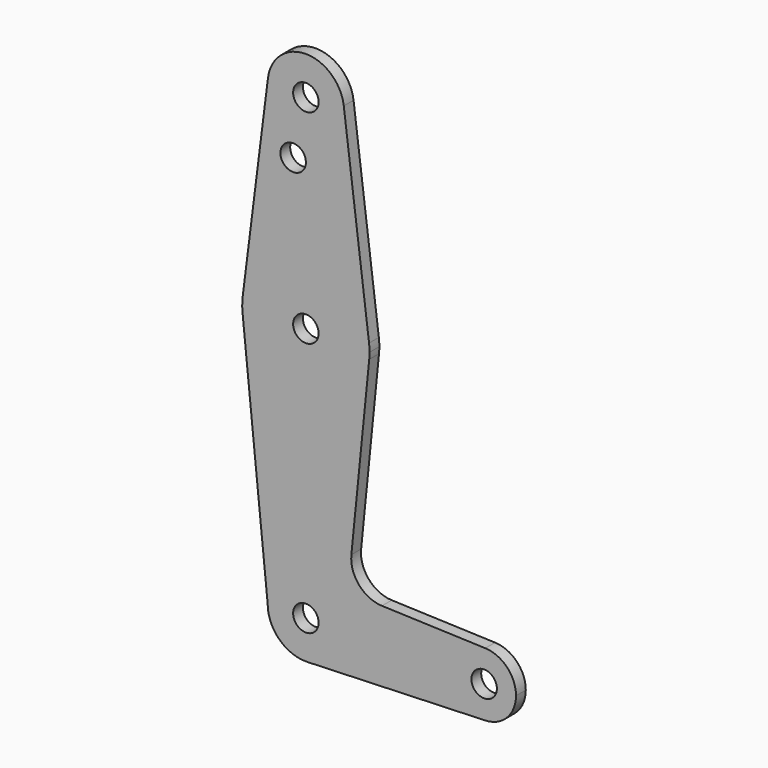
from build123d import *

# Parameters (mm, degrees)
F0_R     = 3.175
F1_DEPTH = 3.048


with BuildPart() as f1:
    # F0 (on Front) → F1 (new body)
    with BuildSketch(Plane.XZ):
        with BuildLine():
            ThreePointArc((9.477255, -0.9525), (9.513056, -0.476848), (9.525, 0))
            ThreePointArc((9.525, 0), (0, 9.525), (-9.525, 0))
            ThreePointArc((-9.525, 0), (-6.613827, -6.854408), (0.340179, -9.518923))
            ThreePointArc((0.340179, -9.518923), (6.514707, -6.948685), (9.477255, -0.9525))
        make_face()
        Circle(F0_R, mode=Mode.SUBTRACT)
        with BuildLine():
            ThreePointArc((-9.525, 0), (0, 9.525), (9.525, 0))
            ThreePointArc((9.525, 0), (9.513056, -0.476848), (9.477255, -0.9525))
            ThreePointArc((9.477255, -0.9525), (6.514707, -6.948685), (0.340179, -9.518923))
            Line((0.340179, -9.518923), (44.733482, -7.932436))
            ThreePointArc((44.733482, -7.932436), (36.5125, 0), (44.733482, 7.932436))
            Line((44.733482, 7.932436), (18.9676, 8.853234))
            ThreePointArc((18.9676, 8.853234), (13.2612, 11.571359), (11.341187, 17.593382))
            Line((11.341187, 17.593382), (15.795426, 61.9125))
            ThreePointArc((15.795426, 61.9125), (0.006091, 47.625001), (-15.794203, 61.90038))
            Line((-15.794203, 61.90038), (-9.525, 0))
        make_face()
        with BuildLine():
            ThreePointArc((-15.750488, 65.484375), (-15.873819, 63.693615), (-15.794203, 61.90038))
            ThreePointArc((-15.794203, 61.90038), (0.006091, 47.625001), (15.795426, 61.9125))
            ThreePointArc((15.795426, 61.9125), (15.855094, 62.705253), (15.875, 63.5))
            ThreePointArc((15.875, 63.5), (15.843841, 64.494139), (15.750488, 65.484375))
            ThreePointArc((15.750488, 65.484375), (0, 79.375), (-15.750488, 65.484375))
        make_face()
        with Locations((0, 63.5)):
            Circle(F0_R, mode=Mode.SUBTRACT)
        with BuildLine():
            ThreePointArc((44.733482, 7.932436), (36.5125, 0), (44.733482, -7.932436))
            ThreePointArc((44.733482, -7.932436), (50.162007, -5.511523), (52.3875, 0))
            ThreePointArc((52.3875, 0), (50.162007, 5.511523), (44.733482, 7.932436))
        make_face()
        with Locations((44.45, 0)):
            Circle(F0_R, mode=Mode.SUBTRACT)
        with BuildLine():
            Line((-9.450293, 115.490625), (-15.750488, 65.484375))
            ThreePointArc((-15.750488, 65.484375), (0, 79.375), (15.750488, 65.484375))
            Line((15.750488, 65.484375), (9.450293, 115.490625))
            ThreePointArc((9.450293, 115.490625), (9.506305, 114.896483), (9.525, 114.3))
            ThreePointArc((9.525, 114.3), (-0.596483, 104.793695), (-9.450293, 115.490625))
        make_face()
        with Locations((-3.175, 100.0252)):
            Circle(F0_R, mode=Mode.SUBTRACT)
        with BuildLine():
            ThreePointArc((9.450293, 115.490625), (0, 123.825), (-9.450293, 115.490625))
            ThreePointArc((-9.450293, 115.490625), (-0.596483, 104.793695), (9.525, 114.3))
            ThreePointArc((9.525, 114.3), (9.506305, 114.896483), (9.450293, 115.490625))
        make_face()
        with Locations((0, 114.3)):
            Circle(F0_R, mode=Mode.SUBTRACT)
    extrude(amount=F1_DEPTH)


solid = f1.part
